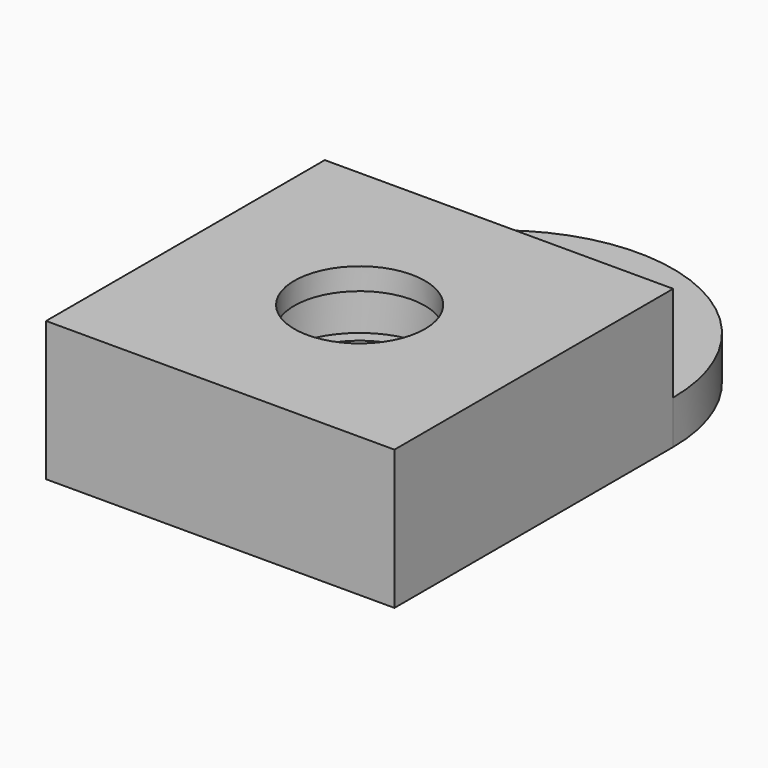
from build123d import *

# Parameters (mm, degrees)
F1_DEPTH = 3.175
F2_W     = 25.4
F2_H     = 25.4
F3_DEPTH = 2.2098
F5_D     = 9.525
F6_W     = 25.4
F6_H     = 25.4
F6_R     = 5.715
F7_DEPTH = 3.175
F8_W     = 25.4
F8_H     = 25.4
F8_R     = 4.7625
F9_DEPTH = 1.6002
F11_D    = 3.175


with BuildPart() as f1:
    # F0 (on Top) → F1 (new body)
    with BuildSketch(Plane.XY):
        with BuildLine():
            Line((-12.7, -12.7), (12.7, -12.7))
            Line((12.7, -12.7), (12.7, 12.7))
            ThreePointArc((12.7, 12.7), (0, 25.4), (-12.7, 12.7))
            Line((-12.7, 12.7), (-12.7, -12.7))
        make_face()
    extrude(amount=F1_DEPTH)

    # F2 (on face) → F3 (join)
    with BuildSketch(Plane.XY.offset(3.175)):
        Rectangle(F2_W, F2_H)
    extrude(amount=F3_DEPTH)

    # F5 (through all)
    with Locations(Plane.XY.offset(5.3848)):
        with Locations((0, 0)):
            Hole(F5_D / 2)

    # F6 (on face) → F7 (join)
    with BuildSketch(Plane.XY.offset(5.3848)):
        Rectangle(F6_W, F6_H)
        Circle(F6_R, mode=Mode.SUBTRACT)
    extrude(amount=F7_DEPTH)

    # F8 (on face) → F9 (join)
    with BuildSketch(Plane.XY.offset(8.5598)):
        Rectangle(F8_W, F8_H)
        Circle(F8_R, mode=Mode.SUBTRACT)
    extrude(amount=F9_DEPTH)

    # F11 (through all)
    with Locations(Plane.XY.offset(3.175)):
        with Locations((0, 19.05)):
            Hole(F11_D / 2)


solid = f1.part
